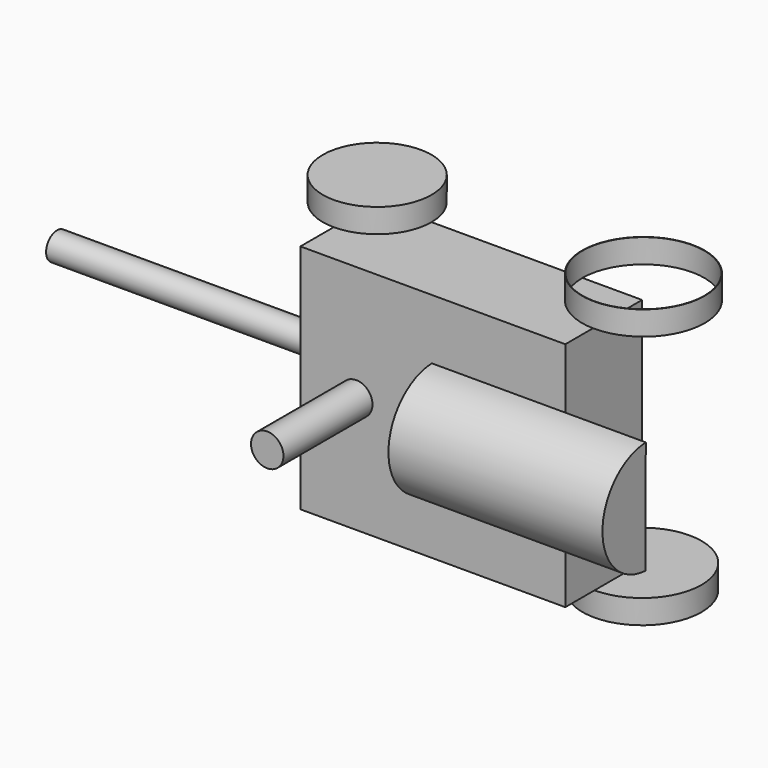
from build123d import *

# Parameters (mm, degrees)
F0_W      = 70.1040104032
F0_H      = 61.2648017704
F1_DEPTH  = 25.4
F2_R      = 14.2710735732
F2_R_2    = 15.7510774592
F3_DEPTH  = 6.35
F4_R      = 16.2418969222
F4_R_2    = 16.137517132
F5_DEPTH  = 6.35
F6_R      = 3.6225069007
F7_DEPTH  = 76.2
F9_DEPTH  = 56.642
F10_R     = 4.2916230847
F11_DEPTH = 29.464


with BuildPart() as f1:
    # F0 (on Front) → F1 (new body)
    with BuildSketch(Plane.XZ):
        Rectangle(F0_W, F0_H)
    extrude(amount=F1_DEPTH)

    # F2 (on face) → F3 (join)
    with BuildSketch(Plane(origin=(0, 0, -30.6324008852), x_dir=(1, 0, 0), z_dir=(0, 0, -1))):
        with Locations((-35.0520052016, 0)):
            Circle(F2_R)
        with Locations((35.0520052016, 0)):
            Circle(F2_R_2)
    extrude(amount=F3_DEPTH)

    # F4 (on face) → F5 (join)
    with BuildSketch(Plane.XY.offset(30.6324008852)):
        with Locations((35.4089811444, 0)):
            Circle(F4_R)
        with Locations((35.4089811444, 0)):
            Circle(F4_R_2, mode=Mode.SUBTRACT)
        with BuildLine():
            ThreePointArc((-20.6651981894, 0), (-35.0520050245, 14.3868070122), (-49.4388122138, 3.541e-07))
            ThreePointArc((-49.4388122138, 3.541e-07), (-35.0520053786, -14.3868070122), (-20.6651981894, 0))
        make_face()
        with BuildLine():
            ThreePointArc((-49.4388122138, 3.541e-07), (-35.1685991603, 14.2702128764), (-20.8983864609, 0))
            ThreePointArc((-20.8983864609, 0), (-35.1685995144, -14.2702128764), (-49.4388122138, 3.541e-07))
        make_face(mode=Mode.SUBTRACT)
        with BuildLine():
            ThreePointArc((-49.4388122138, 3.541e-07), (-35.1685995144, -14.2702128764), (-20.8983864609, 0))
            ThreePointArc((-20.8983864609, 0), (-35.1685991603, 14.2702128764), (-49.4388122138, 3.541e-07))
        make_face()
    extrude(amount=F5_DEPTH)

    # F6 (on face) → F7 (join)
    with BuildSketch(Plane(origin=(-35.0520052016, 0, 0), x_dir=(0, -1, 0), z_dir=(-1, 0, 0))):
        with Locations((10.667999275, 0)):
            Circle(F6_R)
    extrude(amount=F7_DEPTH)

    # F10 (on face) → F11 (join)
    with BuildSketch(Plane.XZ.offset(25.4)):
        with Locations((-20.2692020684, 0)):
            Circle(F10_R)
    extrude(amount=F11_DEPTH)


with BuildPart() as f9:
    # F8 (on Right) → F9 (new body)
    with BuildSketch(Plane.YZ):
        with BuildLine():
            Line((-25.9316310254, -14.9269764392), (-25.7555991411, 14.9352010339))
            ThreePointArc((-25.7555991411, 14.9352010339), (-40.0933788082, 0.0881119575), (-25.9316310254, -14.9269764392))
        make_face()
    extrude(amount=F9_DEPTH)


solid = Compound([f1.part, f9.part])
